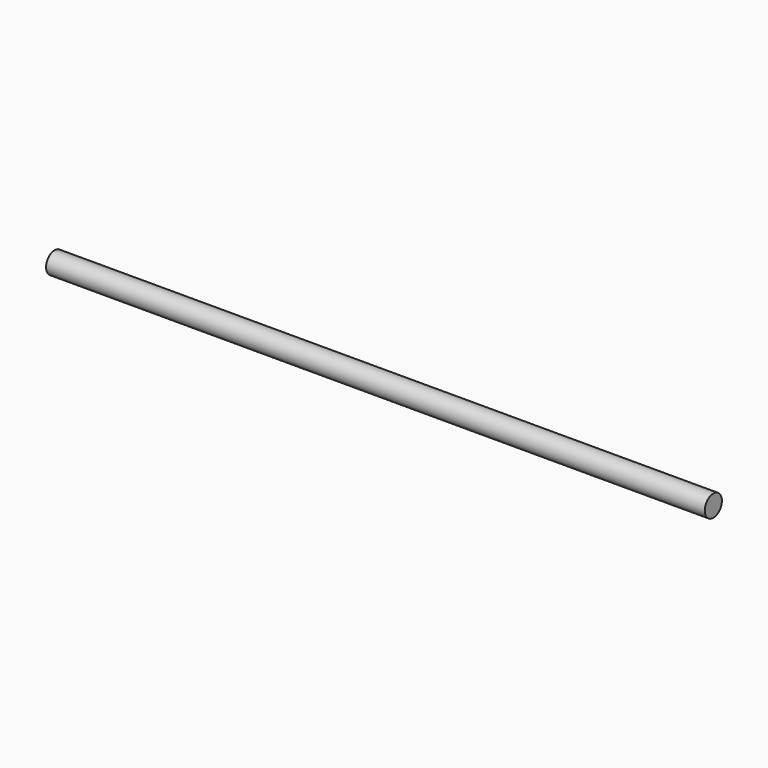
from build123d import *

# Parameters (mm, degrees)
F0_R     = 20.6375
F1_DEPTH = 1219.2
F3_R     = 20.6375
F4_DEPTH = 1270


with BuildPart() as f1:
    # F0 (on Front) → F1 (new body)
    with BuildSketch(Plane.XZ):
        Circle(F0_R)
    extrude(amount=F1_DEPTH)


with BuildPart() as f4:
    # F3 (on Right) → F4 (new body)
    with BuildSketch(Plane.YZ):
        Circle(F3_R)
    extrude(amount=F4_DEPTH)


solid = f4.part
